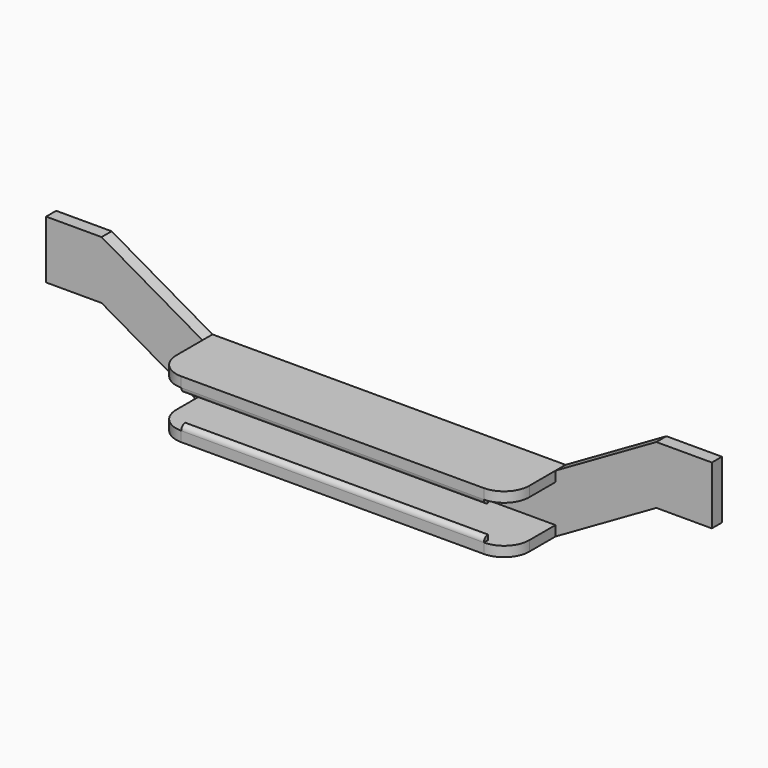
from build123d import *

# Parameters (mm, degrees)
F0_W     = 70
F0_H     = 7.5
F1_DEPTH = 2.5
F0_H_2   = 2
F2_DEPTH = 14
F4_DEPTH = 30
F5_R     = 5


with BuildPart() as f1:
    # F0 (on Front) → F1 (new body)
    with BuildSketch(Plane.XZ):
        Polygon((-55, 23), (-66, 23), (-66, 11.5), (-55, 11.5), (-35, 0), (-35, 2), (-35, 9.5), (-35, 11.5), align=None)
        Polygon((55, 23), (35, 11.5), (35, 9.5), (35, 2), (35, 0), (55, 11.5), (66, 11.5), (66, 23), align=None)
        with Locations((0, 5.75)):
            Rectangle(F0_W, F0_H)
    extrude(amount=F1_DEPTH)

    # F0 (on Front) → F2 (join)
    with BuildSketch(Plane.XZ):
        with Locations((0, 10.5)):
            Rectangle(F0_W, F0_H_2)
        with Locations((0, 1)):
            Rectangle(F0_W, F0_H_2)
    extrude(amount=F2_DEPTH)

    # F3 (on Right) → F4 (join, symmetric)
    with BuildSketch(Plane.YZ):
        with BuildLine():
            Line((-13, 9.5), (-14, 9.5))
            ThreePointArc((-14, 9.5), (-13.7071067812, 8.7928932188), (-13, 8.5))
            Line((-13, 8.5), (-13, 9.5))
        make_face()
        with BuildLine():
            Line((-13, 2), (-13, 3))
            ThreePointArc((-13, 3), (-13.7071067812, 2.7071067812), (-14, 2))
            Line((-14, 2), (-13, 2))
        make_face()
    extrude(amount=F4_DEPTH, both=True)

    # F5
    f5_edges = [f1.edges().sort_by_distance(p)[0] for p in [
        (35, -14, 10.5),
        (35, -14, 1),
        (-35, -14, 1),
        (-35, -14, 10.5),
    ]]
    fillet(f5_edges, radius=F5_R)


solid = f1.part
